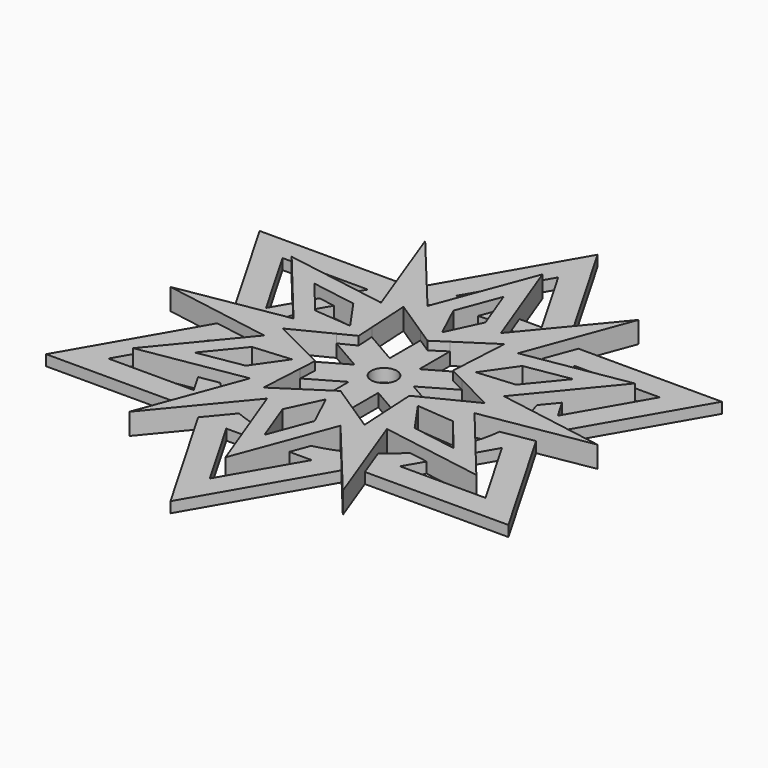
from build123d import *

# Parameters (mm, degrees)
F0_R     = 6
F1_DEPTH = 0.5
F3_DEPTH = 1
F4_R     = 0.6
F5_DEPTH = 25
F7_DEPTH = 0.4


with BuildPart() as f1:
    # F0 (on Top) → F1 (new body)
    with BuildSketch(Plane.XY):
        Polygon((3.6084391824, 6.25), (0, 12.5), (-3.6084391824, 6.25), align=None)
        Polygon((2, 6.7328579847), (-2, 6.7328579847), (0, 10.1969595999), align=None, mode=Mode.SUBTRACT)
        Polygon((3.6084391824, 6.25), (-3.6084391824, 6.25), (-7.2168783649, 0), (-3.6084391824, -6.25), (3.6084391824, -6.25), (7.2168783649, 0), align=None)
        Circle(F0_R, mode=Mode.SUBTRACT)
        Polygon((-7.2168783649, 0), (-3.6084391824, 6.25), (-10.8253175473, 6.25), align=None)
        Polygon((-8.8308260548, 5.0984797999), (-4.8308260548, 5.0984797999), (-6.8308260548, 1.6343781848), align=None, mode=Mode.SUBTRACT)
        Polygon((10.8253175473, 6.25), (3.6084391824, 6.25), (7.2168783649, 0), align=None)
        Polygon((8.8308260548, 5.0984797999), (6.8308260548, 1.6343781848), (4.8308260548, 5.0984797999), align=None, mode=Mode.SUBTRACT)
        Polygon((-3.6084391824, -6.25), (-7.2168783649, 0), (-10.8253175473, -6.25), align=None)
        Polygon((-8.8308260548, -5.0984797999), (-6.8308260548, -1.6343781848), (-4.8308260548, -5.0984797999), align=None, mode=Mode.SUBTRACT)
        Polygon((10.8253175473, -6.25), (7.2168783649, 0), (3.6084391824, -6.25), align=None)
        Polygon((8.8308260548, -5.0984797999), (4.8308260548, -5.0984797999), (6.8308260548, -1.6343781848), align=None, mode=Mode.SUBTRACT)
        Polygon((3.6084391824, -6.25), (-3.6084391824, -6.25), (0, -12.5), align=None)
        Polygon((0, -10.1969595999), (-2, -6.7328579847), (2, -6.7328579847), align=None, mode=Mode.SUBTRACT)
    extrude(amount=F1_DEPTH)

    # F2 (on Top) → F3 (join)
    with BuildSketch(Plane.XY):
        with BuildLine():
            Line((0, 9.2784009988), (-1.7186464041, 4.6953439211))
            ThreePointArc((-1.7186464041, 4.6953439211), (-2.5, 4.3301270189), (-3.2069639131, 3.8360634066))
            Line((-3.2069639131, 3.8360634066), (-8.0353309714, 4.6392004994))
            Line((-8.0353309714, 4.6392004994), (-4.9256103173, 0.8592805145))
            ThreePointArc((-4.9256103173, 0.8592805145), (-5, 0), (-4.9256103173, -0.8592805145))
            Line((-4.9256103173, -0.8592805145), (-8.0353309714, -4.6392004994))
            Line((-8.0353309714, -4.6392004994), (-3.2069639131, -3.8360634066))
            ThreePointArc((-3.2069639131, -3.8360634066), (-2.5, -4.3301270189), (-1.7186464041, -4.6953439211))
            Line((-1.7186464041, -4.6953439211), (0, -9.2784009988))
            Line((0, -9.2784009988), (1.7186464041, -4.6953439211))
            ThreePointArc((1.7186464041, -4.6953439211), (2.5, -4.3301270189), (3.2069639131, -3.8360634066))
            Line((3.2069639131, -3.8360634066), (8.0353309714, -4.6392004994))
            Line((8.0353309714, -4.6392004994), (4.9256103173, -0.8592805145))
            ThreePointArc((4.9256103173, -0.8592805145), (5, 0), (4.9256103173, 0.8592805145))
            Line((4.9256103173, 0.8592805145), (8.0353309714, 4.6392004994))
            Line((8.0353309714, 4.6392004994), (3.2069639131, 3.8360634066))
            ThreePointArc((3.2069639131, 3.8360634066), (2.5, 4.3301270189), (1.7186464041, 4.6953439211))
            Line((1.7186464041, 4.6953439211), (0, 9.2784009988))
        make_face()
        Polygon((-4.7051270189, -1.8504809472), (-3.9551270189, -3.1495190528), (-6.0621778265, -3.5), align=None, mode=Mode.SUBTRACT)
        Polygon((-0.75, -5), (0.75, -5), (0, -7), align=None, mode=Mode.SUBTRACT)
        Polygon((3.9551270189, -3.1495190528), (4.7051270189, -1.8504809472), (6.0621778265, -3.5), align=None, mode=Mode.SUBTRACT)
        Polygon((-3.9551270189, 3.1495190528), (-4.7051270189, 1.8504809472), (-6.0621778265, 3.5), align=None, mode=Mode.SUBTRACT)
        Polygon((4.7051270189, 1.8504809472), (3.9551270189, 3.1495190528), (6.0621778265, 3.5), align=None, mode=Mode.SUBTRACT)
        Polygon((-0.75, 5), (0, 7), (0.75, 5), align=None, mode=Mode.SUBTRACT)
        with BuildLine():
            ThreePointArc((-3.2069639131, 3.8360634066), (-2.5, 4.3301270189), (-1.7186464041, 4.6953439211))
            Line((-1.7186464041, 4.6953439211), (-5, 8.6602540378))
            Line((-5, 8.6602540378), (-3.2069639131, 3.8360634066))
        make_face()
        with BuildLine():
            Line((5, 8.6602540378), (1.7186464041, 4.6953439211))
            ThreePointArc((1.7186464041, 4.6953439211), (2.5, 4.3301270189), (3.2069639131, 3.8360634066))
            Line((3.2069639131, 3.8360634066), (5, 8.6602540378))
        make_face()
        with BuildLine():
            ThreePointArc((-4.9256103173, -0.8592805145), (-5, 0), (-4.9256103173, 0.8592805145))
            Line((-4.9256103173, 0.8592805145), (-10, 0))
            Line((-10, 0), (-4.9256103173, -0.8592805145))
        make_face()
        with BuildLine():
            Line((10, 0), (4.9256103173, 0.8592805145))
            ThreePointArc((4.9256103173, 0.8592805145), (5, 0), (4.9256103173, -0.8592805145))
            Line((4.9256103173, -0.8592805145), (10, 0))
        make_face()
        with BuildLine():
            ThreePointArc((-1.7186464041, -4.6953439211), (-2.5, -4.3301270189), (-3.2069639131, -3.8360634066))
            Line((-3.2069639131, -3.8360634066), (-5, -8.6602540378))
            Line((-5, -8.6602540378), (-1.7186464041, -4.6953439211))
        make_face()
        with BuildLine():
            Line((5, -8.6602540378), (3.2069639131, -3.8360634066))
            ThreePointArc((3.2069639131, -3.8360634066), (2.5, -4.3301270189), (1.7186464041, -4.6953439211))
            Line((1.7186464041, -4.6953439211), (5, -8.6602540378))
        make_face()
    extrude(amount=F3_DEPTH)

    # F4 (on face) → F5 (cut)
    with BuildSketch(Plane.XY.offset(1)):
        Polygon((0.75, 5), (-0.75, 5), (0, 3.4), align=None)
        Polygon((2.3652717414, 4.0967708298), (0.692820323, 3), (0.692820323, 1.2), (2.2516660498, 2.1), align=None)
        Polygon((-2.9444863729, 1.7), (-3.9551270189, 3.1495190528), (-4.7051270189, 1.8504809472), align=None)
        Polygon((-0.692820323, 3), (-2.3652717414, 4.0967708298), (-2.2516660498, 2.1), (-0.692820323, 1.2), align=None)
        Polygon((-2.9444863729, -1.7), (-4.7051270189, -1.8504809472), (-3.9551270189, -3.1495190528), align=None)
        Polygon((-2.9444863729, 0.9), (-4.7305434828, 0), (-2.9444863729, -0.9), (-1.3856406461, 0), align=None)
        Polygon((0, -3.4), (-0.75, -5), (0.75, -5), align=None)
        Polygon((-2.2516660498, -2.1), (-2.3652717414, -4.0967708298), (-0.692820323, -3), (-0.692820323, -1.2), align=None)
        Polygon((2.9444863729, -1.7), (3.9551270189, -3.1495190528), (4.7051270189, -1.8504809472), align=None)
        Polygon((0.692820323, -3), (2.3652717414, -4.0967708298), (2.2516660498, -2.1), (0.692820323, -1.2), align=None)
        Polygon((2.9444863729, 1.7), (4.7051270189, 1.8504809472), (3.9551270189, 3.1495190528), align=None)
        Polygon((2.9444863729, -0.9), (4.7305434828, 0), (2.9444863729, 0.9), (1.3856406461, 0), align=None)
        Circle(F4_R)
    extrude(amount=-F5_DEPTH, mode=Mode.SUBTRACT)

    # F6 (on face) → F7 (cut)
    with BuildSketch(Plane.XY.offset(1)):
        Polygon((0, 2.5456578814), (-0.692820323, 3), (-0.692820323, 1.2), (-2.2516660498, 2.1), (-2.2046043947, 1.2728289407), (-2.9444863729, 0.9), (-1.3856406461, 0), (-2.9444863729, -0.9), (-2.2046043947, -1.2728289407), (-2.2516660498, -2.1), (-0.692820323, -1.2), (-0.692820323, -3), (0, -2.5456578814), (0.692820323, -3), (0.692820323, -1.2), (2.2516660498, -2.1), (2.2046043947, -1.2728289407), (2.9444863729, -0.9), (1.3856406461, 0), (2.9444863729, 0.9), (2.2046043947, 1.2728289407), (2.2516660498, 2.1), (0.692820323, 1.2), (0.692820323, 3), align=None)
    extrude(amount=-F7_DEPTH, mode=Mode.SUBTRACT)


solid = f1.part
